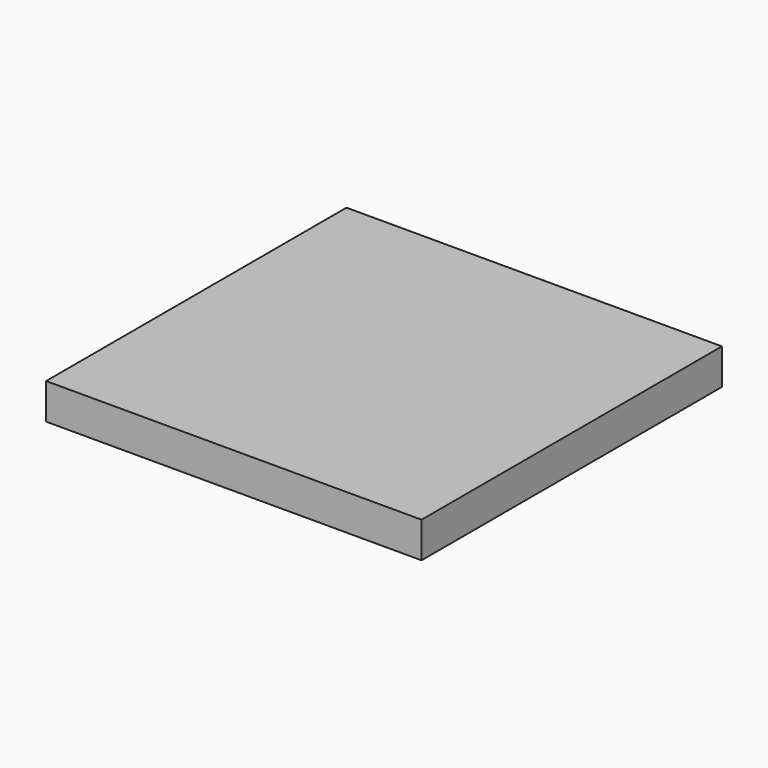
from build123d import *

# Parameters (mm, degrees)
F3_W     = 100
F3_H     = 100
F4_DEPTH = 9.525


with BuildPart() as f4:
    # F3 (on offset) → F4 (new body)
    with BuildSketch(Plane.XY.offset(1219.2)):
        with Locations((-1828.8, 2133.6)):
            Rectangle(F3_W, F3_H)
    extrude(amount=F4_DEPTH)


solid = f4.part
